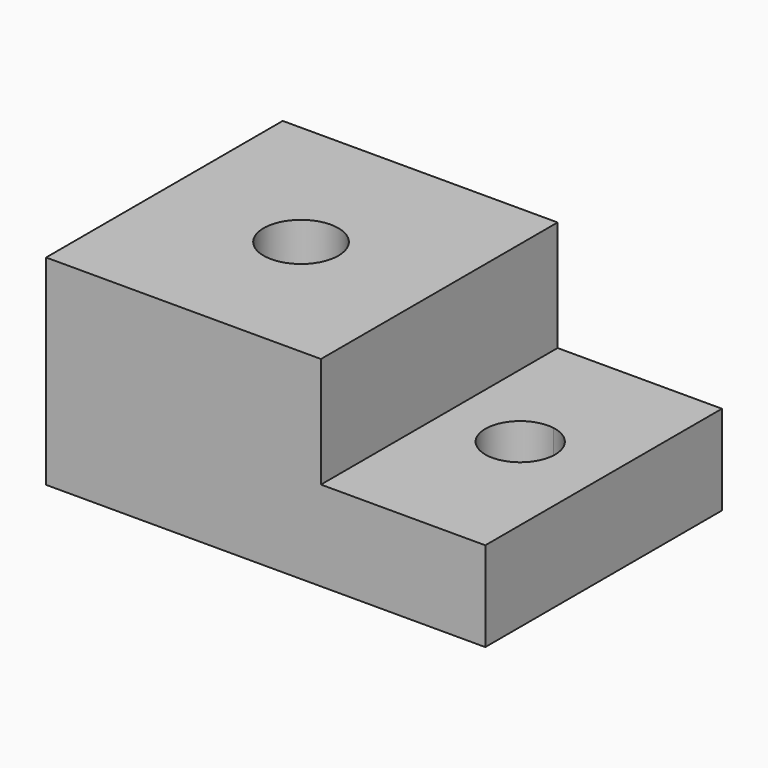
from build123d import *

# Parameters (mm, degrees)
F0_W     = 46.736
F0_H     = 50.292
F0_R     = 6.355681
F1_DEPTH = 34.036
F2_DEPTH = 15.24


with BuildPart() as f1:
    # F0 (on Top) → F1 (new body)
    with BuildSketch(Plane.XY):
        with Locations((-8.483054, 6.858)):
            Rectangle(F0_W, F0_H)
        with Locations((-8.2144, 6.35)):
            Circle(F0_R, mode=Mode.SUBTRACT)
    extrude(amount=F1_DEPTH)

    # F0 (on Top) → F2 (join)
    with BuildSketch(Plane.XY):
        with BuildLine():
            Line((42.824946, 32.004), (28.854946, 32.004))
            Line((28.854946, 32.004), (28.854946, 13.716))
            ThreePointArc((28.854946, 13.716), (32.376886, 11.690848), (33.768636, 7.874))
            ThreePointArc((33.768636, 7.874), (33.746673, 7.364111), (33.680946, 6.858))
            Line((33.680946, 6.858), (42.824946, 6.858))
            Line((42.824946, 6.858), (42.824946, 32.004))
        make_face()
        with BuildLine():
            Line((28.854946, 32.004), (14.884946, 32.004))
            Line((14.884946, 32.004), (14.884946, -18.288))
            Line((14.884946, -18.288), (28.854946, -18.288))
            Line((28.854946, -18.288), (28.854946, 2.032))
            ThreePointArc((28.854946, 2.032), (21.909257, 7.874), (28.854946, 13.716))
            Line((28.854946, 13.716), (28.854946, 32.004))
        make_face()
        with BuildLine():
            Line((28.854946, 2.032), (28.854946, -18.288))
            Line((28.854946, -18.288), (42.824946, -18.288))
            Line((42.824946, -18.288), (42.824946, 6.858))
            Line((42.824946, 6.858), (33.680946, 6.858))
            ThreePointArc((33.680946, 6.858), (32.03187, 3.681076), (28.854946, 2.032))
        make_face()
    extrude(amount=F2_DEPTH)


solid = f1.part
